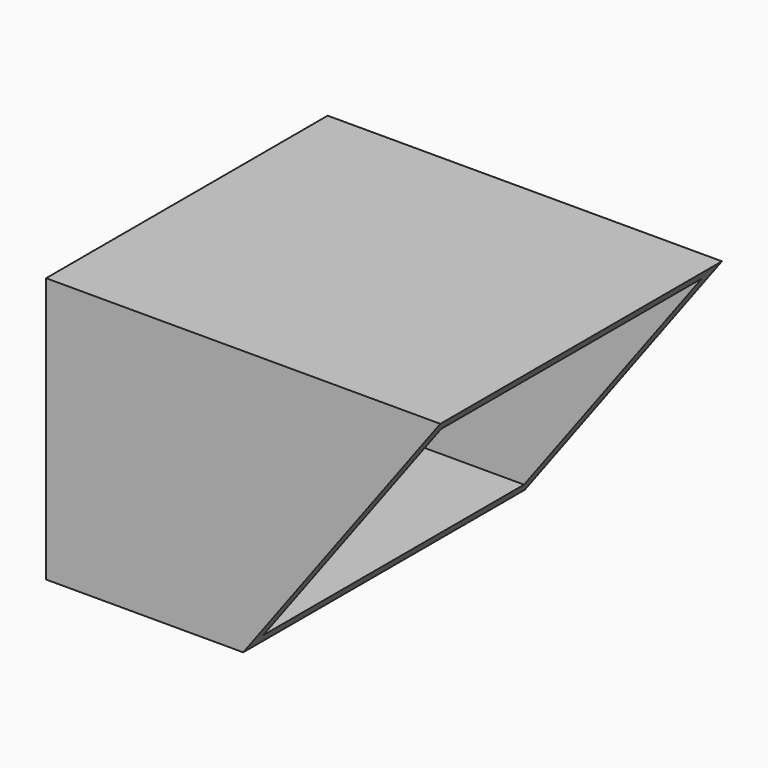
from build123d import *

# Parameters (mm, degrees)
F0_W     = 60.931796
F0_H     = 54.4
F0_W_2   = 56.931796
F0_H_2   = 50.4
F1_DEPTH = 41
F3_DEPTH = 54.401
F4_T     = -2


with BuildPart() as f1:
    # F0 (on Top) → F1 (new body)
    with BuildSketch(Plane.XY):
        Rectangle(F0_W, F0_H)
        Rectangle(F0_W_2, F0_H_2, mode=Mode.SUBTRACT)
        Rectangle(F0_W_2, F0_H_2)
    extrude(amount=F1_DEPTH)

    # F2 (on face) → F3 (cut, through all)
    with BuildSketch(Plane.XZ.offset(27.2)):
        Polygon((30.465898, 0), (30.465898, 41), (0, 0), align=None)
    extrude(amount=-F3_DEPTH, mode=Mode.SUBTRACT)

    # F4
    f4_openings = [f1.faces().sort_by_distance(p)[0] for p in [
        (15.232949, 0, 20.5),
    ]]
    offset(amount=F4_T, openings=f4_openings)


solid = f1.part
